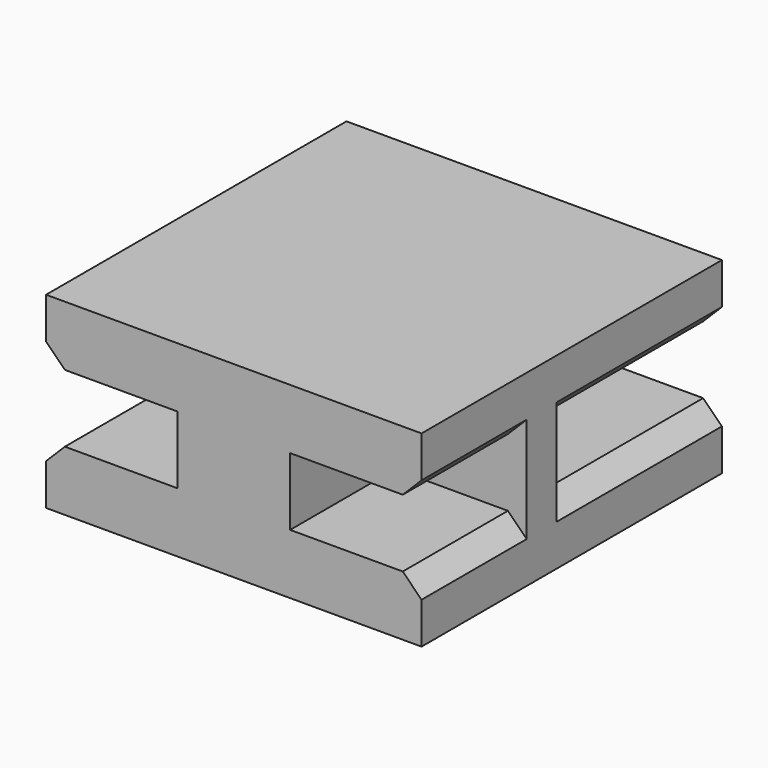
from build123d import *

# Parameters (mm, degrees)
SKETCH_W        = 10
SKETCH_H        = 10
PAD_DEPTH       = 5
POCKET_DEPTH    = 3.5
POCKET001_DEPTH = 5.5
POCKET002_DEPTH = 0.25


with BuildPart() as part:
    # Sketch → Pad (new body)
    with BuildSketch(Plane.XY):
        with Locations((5, 5)):
            Rectangle(SKETCH_W, SKETCH_H)
    extrude(amount=PAD_DEPTH)

    # Sketch001 (on Face1 of Pad) → Pocket (cut)
    with BuildSketch(Plane.XZ):
        Polygon((0, 3.9), (0.5, 3.4), (3.5, 3.4), (3.5, 1.6), (0.5, 1.6), (0, 1.1), (-0.843027, 1.1), (-0.843027, 3.9), align=None)
        Polygon((10.955688, 3.9), (10, 3.9), (9.5, 3.4), (6.5, 3.4), (6.5, 1.6), (9.5, 1.6), (10, 1.1), (10.955688, 1.1), align=None)
    extrude(amount=-POCKET_DEPTH, mode=Mode.SUBTRACT)

    # Sketch002 (on Face16 of Pocket) → Pocket001 (cut)
    with BuildSketch(Plane(origin=(0, 10, 0), x_dir=(-1, 0, 0), z_dir=(0, 1, 0))):
        Polygon((-11.13075, 3.9), (-10, 3.9), (-9.5, 3.4), (-6.5, 3.4), (-6.5, 1.6), (-9.5, 1.6), (-10, 1.1), (-11.181449, 1.1), (-11.181449, 3.860271), align=None)
        Polygon((-3.5, 3.4), (-0.5, 3.4), (0, 3.9), (0.82411, 3.9), (0.98968, 1.1), (0, 1.1), (-0.5, 1.6), (-3.5, 1.6), align=None)
    extrude(amount=-POCKET001_DEPTH, mode=Mode.SUBTRACT)

    # Sketch003 (on Face2 of Pocket001) → Pocket002 (cut)
    with BuildSketch(Plane(origin=(0, 0, 0), x_dir=(1, 0, 0), z_dir=(0, 0, -1))):
        Polygon((-0.717832, -0.309342), (-0.717832, -1.992022), (0.739412, -1.150682), align=None)
    extrude(amount=-POCKET002_DEPTH, mode=Mode.SUBTRACT)


solid = part.part
